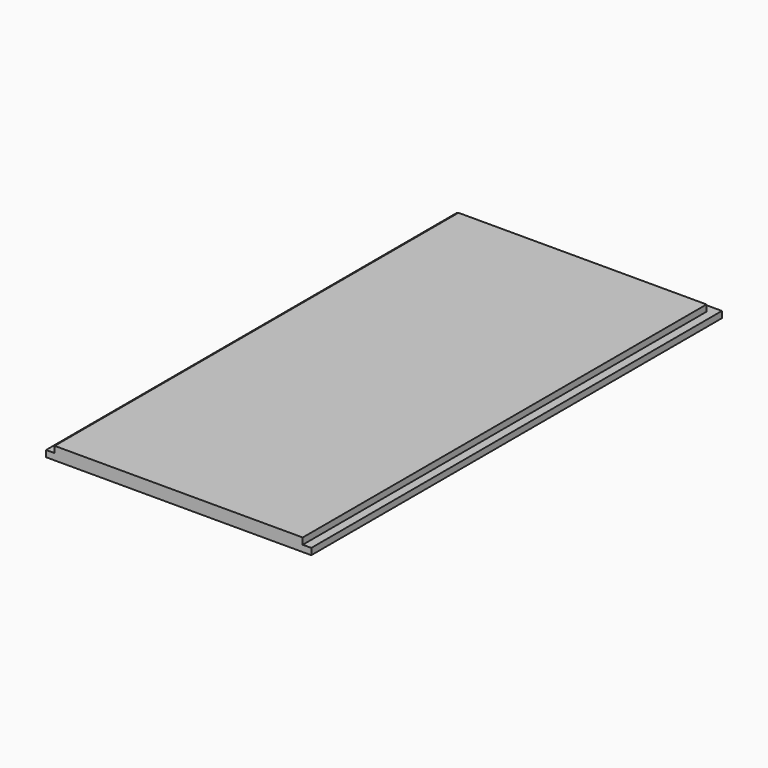
from build123d import *

# Parameters (mm, degrees)
F0_W     = 92.075
F0_H     = 187.325
F1_DEPTH = 4.7625
F2_DEPTH = 2.3876


with BuildPart() as f1:
    # F0 (on Top) → F1 (new body)
    with BuildSketch(Plane.XY):
        with Locations((0, -1.5875)):
            Rectangle(F0_W, F0_H)
    extrude(amount=F1_DEPTH)

    # F0 (on Top) → F2 (join)
    with BuildSketch(Plane.XY):
        Polygon((49.2125, 95.25), (-49.2125, 95.25), (-49.2125, -95.25), (-46.0375, -95.25), (-46.0375, 92.075), (46.0375, 92.075), (46.0375, -95.25), (49.2125, -95.25), align=None)
    extrude(amount=F2_DEPTH)


solid = f1.part
